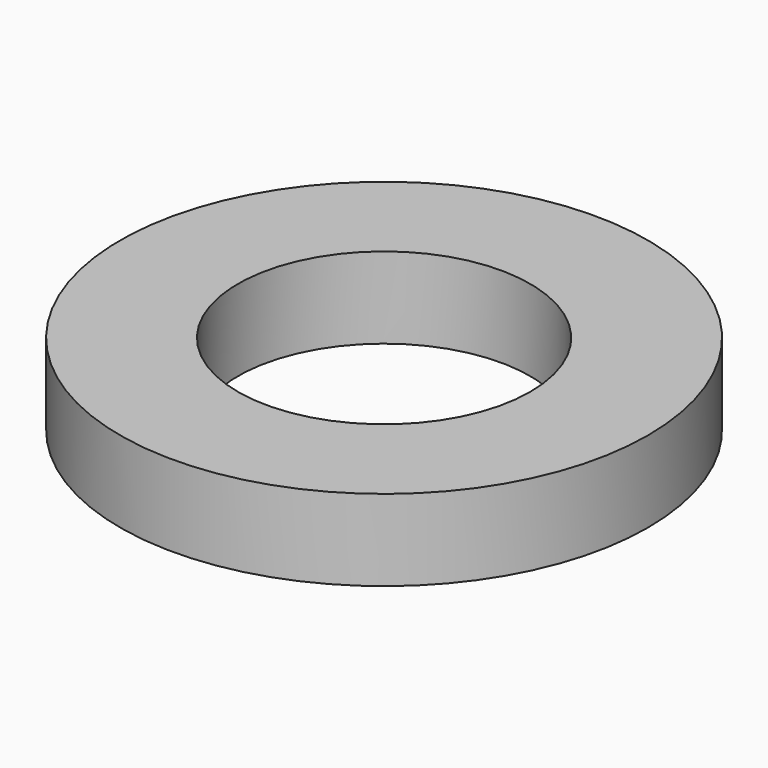
from build123d import *

# Parameters (mm, degrees)
SKETCH_R   = 32.5
SKETCH_R_2 = 18
PAD_DEPTH  = 10


with BuildPart() as part:
    # Sketch → Pad (new body)
    with BuildSketch(Plane.XY):
        Circle(SKETCH_R)
        Circle(SKETCH_R_2, mode=Mode.SUBTRACT)
    extrude(amount=PAD_DEPTH)


solid = part.part
